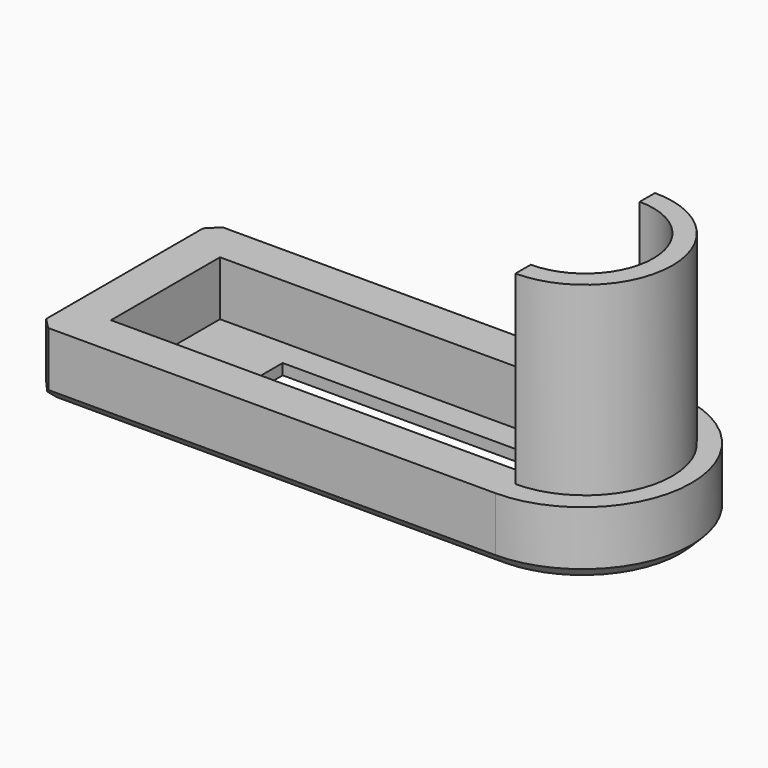
from build123d import *

# Parameters (mm, degrees)
PAD005_DEPTH    = 6
SKETCH015_W     = 38.5
SKETCH015_H     = 12.5
POCKET003_DEPTH = 5
SKETCH017_W     = 23.5
SKETCH017_H     = 7
POCKET010_DEPTH = 1
PAD006_DEPTH    = 17
POCKET011_DEPTH = 17
CHAMFER002_SIZE = 1
CHAMFER003_SIZE = 1
CHAMFER004_SIZE = 1


with BuildPart() as part:
    # Sketch016 → Pad005 (new body)
    with BuildSketch(Plane.XY):
        with BuildLine():
            Line((-23, 10), (-23, -10))
            Line((-23, -10), (19, -10))
            ThreePointArc((19, -10), (29, 0), (19, 10))
            Line((-23, 10), (19, 10))
        make_face()
    extrude(amount=PAD005_DEPTH)

    # Sketch015 (on Face6 of Pad005) → Pocket003 (cut)
    with BuildSketch(Plane.XY.offset(6)):
        Rectangle(SKETCH015_W, SKETCH015_H)
    extrude(amount=-POCKET003_DEPTH, mode=Mode.SUBTRACT)

    # Sketch017 (on Face11 of Pocket003) → Pocket010 (cut)
    with BuildSketch(Plane.XY.offset(1)):
        with Locations((0.25, 0.25)):
            Rectangle(SKETCH017_W, SKETCH017_H)
    extrude(amount=-POCKET010_DEPTH, mode=Mode.SUBTRACT)

    # Sketch018 (on Face5 of Pocket010) → Pad006 (join)
    with BuildSketch(Plane.XY.offset(6)):
        with BuildLine():
            Line((19.25, 8), (19.25, -8))
            ThreePointArc((19.25, -8), (27.25, 0), (19.25, 8))
        make_face()
    extrude(amount=PAD006_DEPTH)

    # Sketch019 (on Face16 of Pad006) → Pocket011 (cut)
    with BuildSketch(Plane.XY.offset(23)):
        with BuildLine():
            Line((19.25, -6.25), (19.25, 6.25))
            ThreePointArc((19.25, -6.25), (25.5, 0), (19.25, 6.25))
        make_face()
    extrude(amount=-POCKET011_DEPTH, mode=Mode.SUBTRACT)

    # Chamfer002
    chamfer002_edges = [part.edges().sort_by_distance(p)[0] for p in [
        (-2, -10, 0),
    ]]
    chamfer(chamfer002_edges, length=CHAMFER002_SIZE)

    # Chamfer003
    chamfer003_edges = [part.edges().sort_by_distance(p)[0] for p in [
        (-23, 0, 0),
    ]]
    chamfer(chamfer003_edges, length=CHAMFER003_SIZE)

    # Chamfer004
    chamfer004_edges = [part.edges().sort_by_distance(p)[0] for p in [
        (-23, 10, 3.5),
        (-23, -10, 3.5),
    ]]
    chamfer(chamfer004_edges, length=CHAMFER004_SIZE)


with BuildPart() as part_1:
    # Body006 placement: moved
    add(part.part.moved(Location((-50, 50, 0))))


solid = part_1.part
